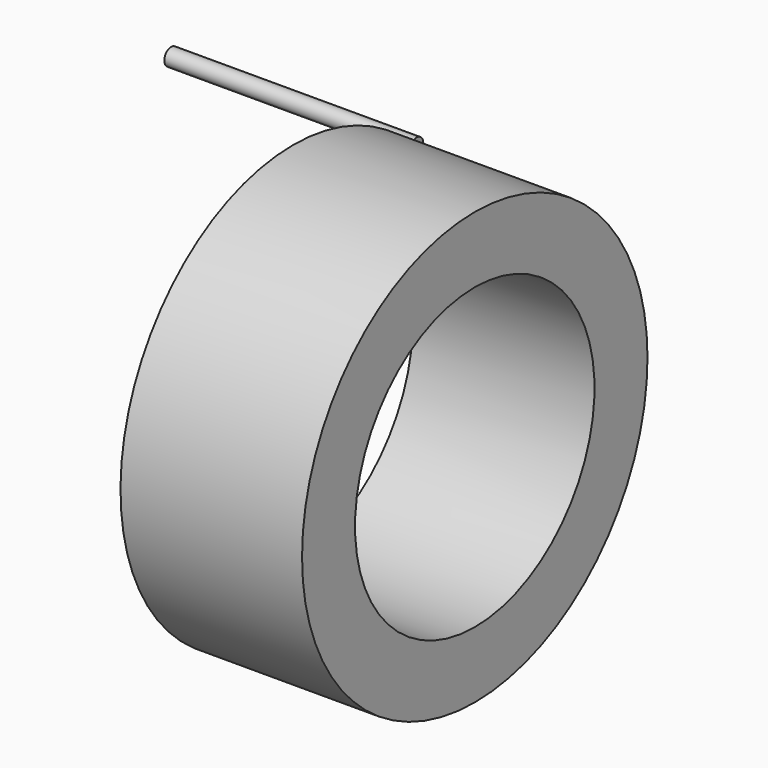
from build123d import *

# Parameters (mm, degrees)
F0_W     = 18.7960024923
F0_H     = 6.8580005318
F2_R     = 0.8834552468
F3_DEPTH = 25.4


with BuildPart() as f1:
    # F0 (on Front) → F1 (revolve)
    with BuildSketch(Plane.XZ):
        with Locations((-32.7660003677, 33.3983553573)):
            Rectangle(F0_W, F0_H)
    revolve(axis=Axis((-34.1630009934, 0, 14.4753549248), (1, 0, 0)))

    # F2 (on face) → F3 (join)
    with BuildSketch(Plane(origin=(-42.1640016139, 0, 0), x_dir=(0, -1, 0), z_dir=(-1, 0, 0))):
        with Locations((-15.9509410696, 30.1335608954)):
            Circle(F2_R)
    extrude(amount=F3_DEPTH)


solid = f1.part
